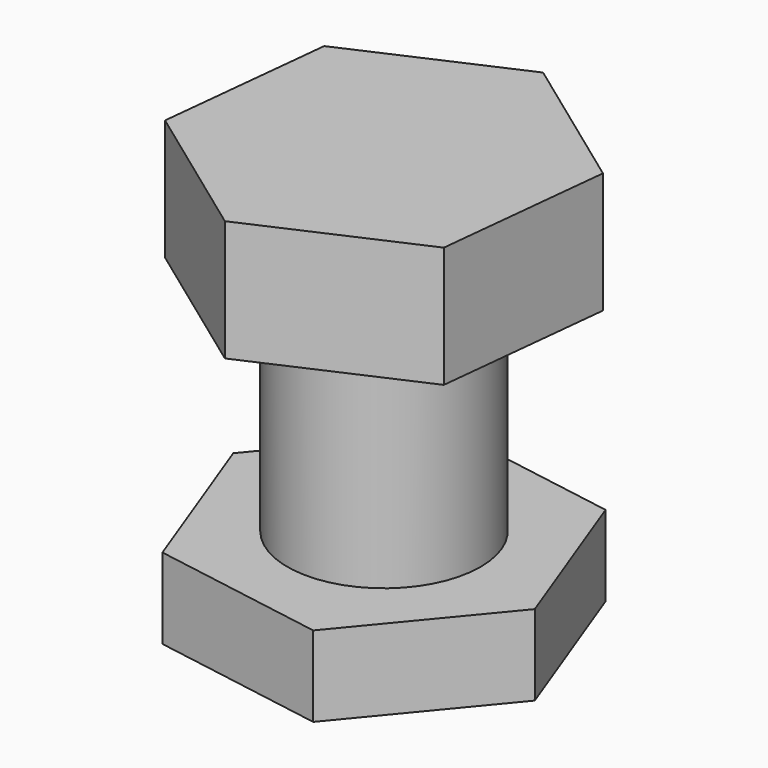
from build123d import *

# Parameters (mm, degrees)
F1_DEPTH = 7.5
F2_R     = 6
F3_DEPTH = 13.5
F4_R     = 6
F5_DEPTH = 5


with BuildPart() as f1:
    # F0 (on Top) → F1 (new body)
    with BuildSketch(Plane.XY):
        Polygon((-8.873624, 6.449196), (-10.02198, -4.460185), (-1.148356, -10.909382), (8.873624, -6.449196), (10.02198, 4.460185), (1.148356, 10.909382), align=None)
    extrude(amount=F1_DEPTH)

    # F2 (on face) → F3 (join)
    with BuildSketch(Plane(origin=(0, 0, 0), x_dir=(1, 0, 0), z_dir=(0, 0, -1))):
        Circle(F2_R)
    extrude(amount=F3_DEPTH)


with BuildPart() as f5:
    # F4 (on face) → F5 (new body)
    with BuildSketch(Plane(origin=(0, 0, -13.5), x_dir=(1, 0, 0), z_dir=(0, 0, -1))):
        Polygon((6.988092, -8.455761), (10.81695, 1.823985), (3.828858, 10.279746), (-6.988092, 8.455761), (-10.81695, -1.823985), (-3.828858, -10.279746), align=None)
        Circle(F4_R, mode=Mode.SUBTRACT)
    extrude(amount=F5_DEPTH)


solid = Compound([f1.part, f5.part])
